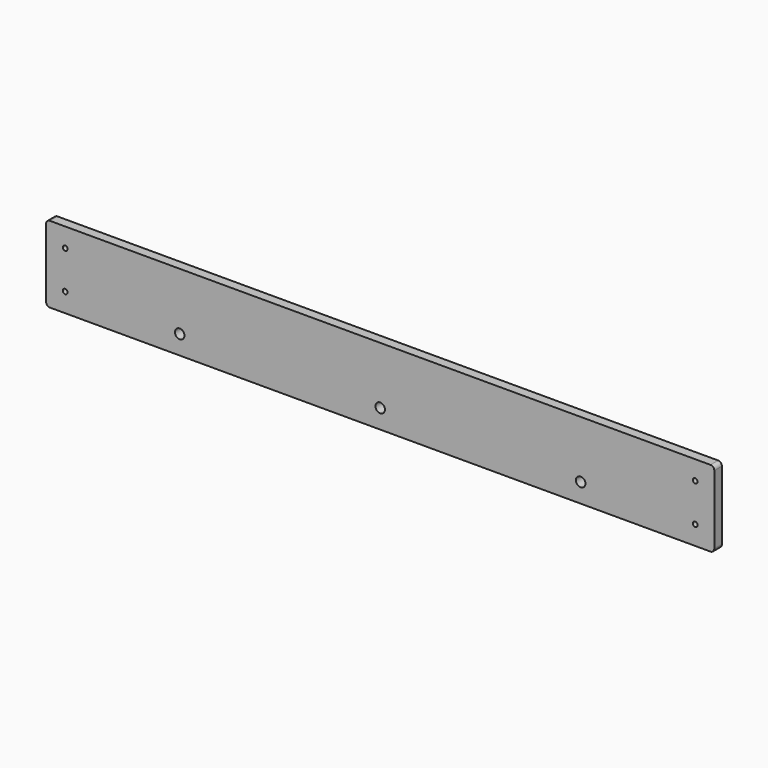
from build123d import *

# Parameters (mm, degrees)
F0_W     = 444.5
F0_H     = 50.8
F0_R     = 1.5875
F0_R_2   = 3.175
F1_DEPTH = 3.175
F2_R     = 2.54


with BuildPart() as f1:
    # F0 (on Front) → F1 (new body, symmetric)
    with BuildSketch(Plane.XZ):
        Rectangle(F0_W, F0_H)
        with Locations((-209.55, -12.7)):
            Circle(F0_R, mode=Mode.SUBTRACT)
        with Locations((-133.35, -12.7)):
            Circle(F0_R_2, mode=Mode.SUBTRACT)
        with Locations((0, -12.7)):
            Circle(F0_R_2, mode=Mode.SUBTRACT)
        with Locations((133.35, -12.7)):
            Circle(F0_R_2, mode=Mode.SUBTRACT)
        with Locations((209.55, -12.7)):
            Circle(F0_R, mode=Mode.SUBTRACT)
        with Locations((-209.55, 12.7)):
            Circle(F0_R, mode=Mode.SUBTRACT)
        with Locations((209.55, 12.7)):
            Circle(F0_R, mode=Mode.SUBTRACT)
    extrude(amount=F1_DEPTH, both=True)

    # F2
    f2_edges = [f1.edges().sort_by_distance(p)[0] for p in [
        (-222.25, 0, 25.4),
        (-222.25, 0, -25.4),
        (222.25, 0, 25.4),
        (222.25, 0, -25.4),
    ]]
    fillet(f2_edges, radius=F2_R)


solid = f1.part
